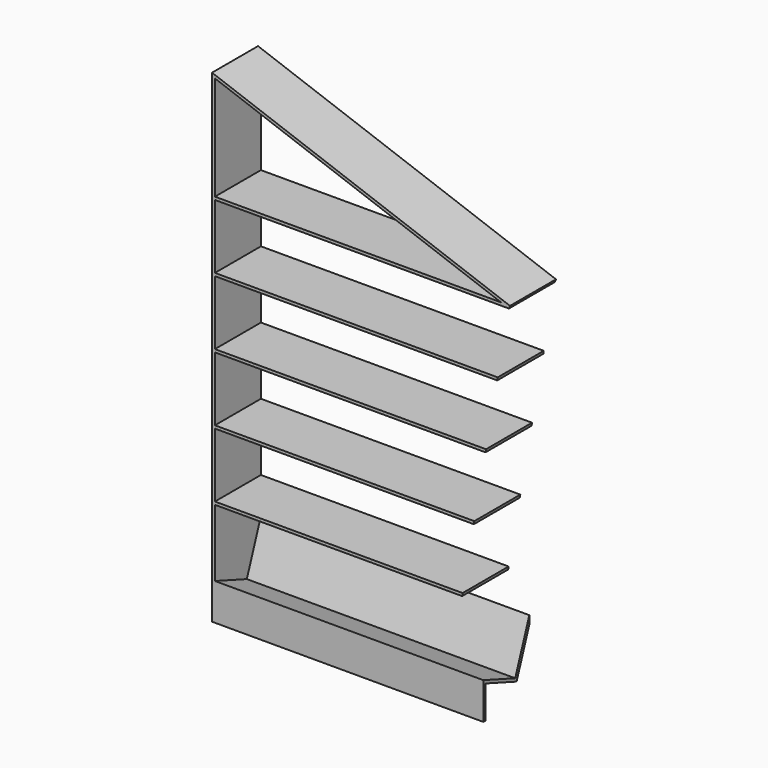
from build123d import *

# Parameters (mm, degrees)
F1_DEPTH = 300
F3_DEPTH = 1400


with BuildPart() as f1:
    # F0 (on Front) → F1 (new body)
    with BuildSketch(Plane.XZ):
        Polygon((0, 0), (15, 0), (15, 541.767756), (15, 556.767756), (15, 891.767756), (15, 906.767756), (15, 1241.767756), (15, 1256.767756), (15, 1591.767756), (15, 1606.767756), (15, 1941.767756), (15, 1956.767756), (15, 2500), (1507.518325, 1956.767756), (1548.730486, 1941.767756), (1554.054528, 1955.792629), (0, 2521.42222), align=None)
        Polygon((15, 556.767756), (15, 541.767756), (1304.550659, 541.767756), (1307.166871, 556.767756), align=None)
        Polygon((15, 906.767756), (15, 891.767756), (1365.595615, 891.767756), (1368.211828, 906.767756), align=None)
        Polygon((15, 1941.767756), (1548.730486, 1941.767756), (1507.518325, 1956.767756), (15, 1956.767756), align=None)
        Polygon((15, 1256.767756), (15, 1241.767756), (1426.640572, 1241.767756), (1429.256785, 1256.767756), align=None)
        Polygon((1490.301742, 1606.767756), (15, 1606.767756), (15, 1591.767756), (1487.685529, 1591.767756), align=None)
    extrude(amount=F1_DEPTH)

    # F2 (on face) → F3 (join)
    with BuildSketch(Plane.YZ.offset(15)):
        Polygon((-91.845083, 116.005562), (-300, 191.767756), (-300, 0), (-285, 0), (-285, 170.345536), (-82.879996, 96.77987), (0, 324.490787), (0, 368.347853), align=None)
    extrude(amount=F3_DEPTH)


solid = f1.part
